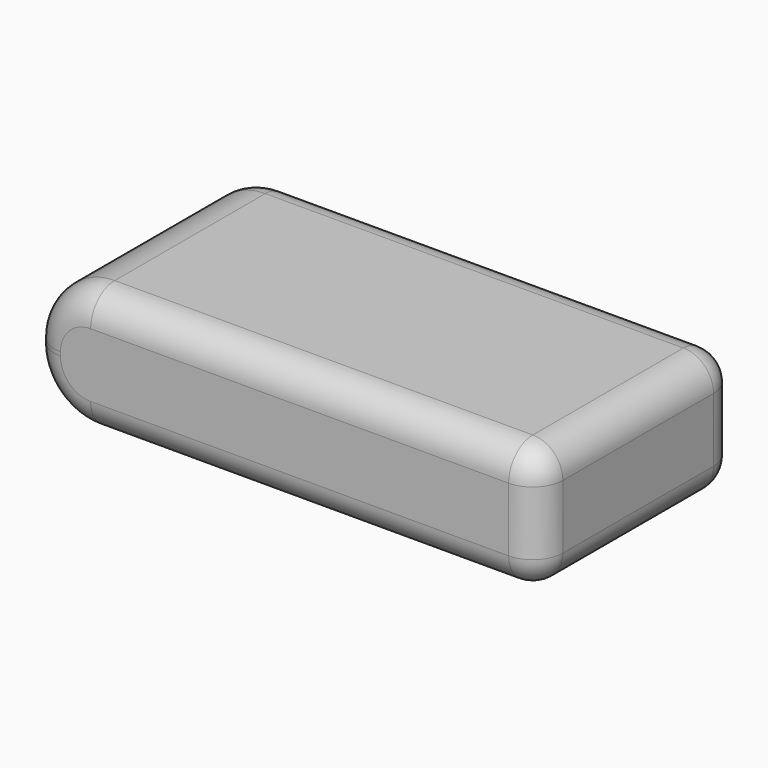
from build123d import *

# Parameters (mm, degrees)
F0_W     = 33.75
F0_H     = 16.5
F1_DEPTH = 8.25
F2_R     = 4
F3_R     = 2


with BuildPart() as f1:
    # F0 (on Top) → F1 (new body)
    with BuildSketch(Plane.XY):
        Rectangle(F0_W, F0_H)
    extrude(amount=F1_DEPTH)

    # F2
    f2_edges = [f1.edges().sort_by_distance(p)[0] for p in [
        (-16.875, 0, 8.25),
        (-16.875, 0, 0),
    ]]
    fillet(f2_edges, radius=F2_R)

    # F3
    f3_edges = [f1.edges().sort_by_distance(p)[0] for p in [
        (2, -8.25, 8.25),
        (2, 8.25, 8.25),
        (16.875, 0, 8.25),
        (16.875, 0, 0),
        (16.875, -8.25, 4.125),
        (16.875, 8.25, 4.125),
    ]]
    fillet(f3_edges, radius=F3_R)


solid = f1.part
